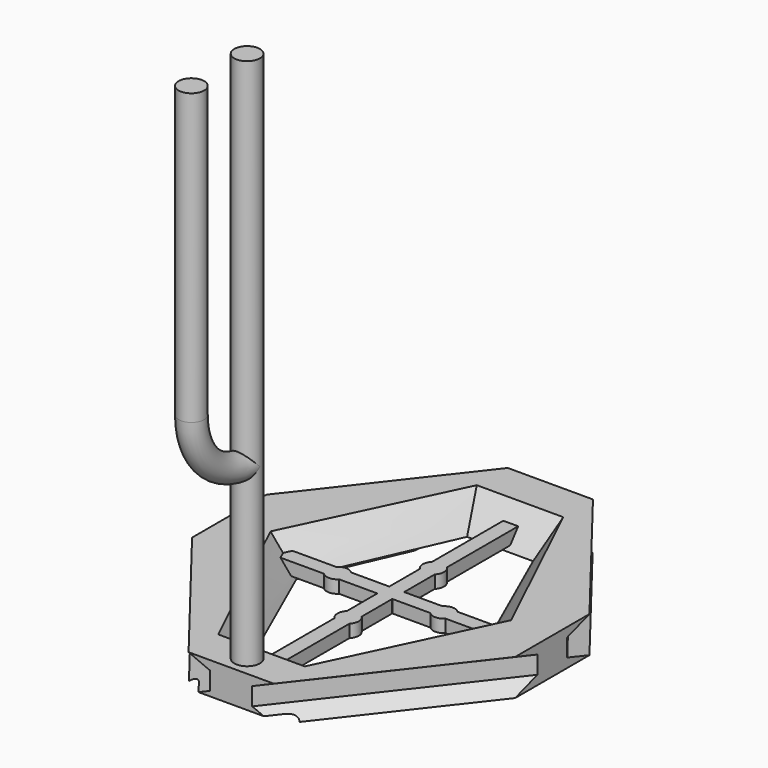
from build123d import *

# Parameters (mm, degrees)
POCKET_DEPTH         = 0.254
POCKET002_DEPTH      = 11.891
POCKET002_DEPTH_BACK = 11.891
PAD_DEPTH            = 0.762
SKETCH025_R          = 0.762
PAD001_DEPTH         = 31.75
SKETCH040_R          = 0.762


with BuildPart() as part:
    # Sketch → AdditiveLoft section 0
    with BuildSketch(Plane.XY):
        Polygon((-2.54, 11.89), (2.54, 11.89), (9.628041, 2.7686), (9.628041, -2.7686), (2.54, -11.89), (-2.54, -11.89), (-9.628041, -2.7686), (-9.628041, 2.7686), align=None)
    # Sketch028 → AdditiveLoft section 1
    with BuildSketch(Plane.XY.offset(0.548386)):
        Polygon((-9.628041, 1.112788), (-1.253305, 11.89), (1.253305, 11.89), (9.628041, 1.112788), (9.628041, -1.112788), (1.253305, -11.89), (-1.253305, -11.89), (-9.628041, -1.112788), align=None)
    # Sketch029 → AdditiveLoft section 2
    with BuildSketch(Plane.XY.offset(1.610614)):
        Polygon((-9.628041, 1.112788), (-1.253305, 11.89), (1.253305, 11.89), (9.628041, 1.112788), (9.628041, -1.112788), (1.253305, -11.89), (-1.253305, -11.89), (-9.628041, -1.112788), align=None)
    # Sketch019 → AdditiveLoft section 3
    with BuildSketch(Plane.XY.offset(2.159)):
        Polygon((-2.54, 11.89), (2.54, 11.89), (9.628041, 2.7686), (9.628041, -2.7686), (2.54, -11.89), (-2.54, -11.89), (-9.628041, -2.7686), (-9.628041, 2.7686), align=None)
    loft(ruled=True)

    # Sketch013 → SubtractiveLoft section 0
    with BuildSketch(Plane.XY.offset(2.159)):
        Polygon((-7.16788, 0), (-2.577952, -9.63194), (2.577952, -9.63194), (7.16788, 0), (2.577952, 9.63194), (-2.577952, 9.63194), align=None)
    # Sketch014 → SubtractiveLoft section 1
    with BuildSketch(Plane(origin=(0, 0, 0), x_dir=(1, 0, 0), z_dir=(0, 0, -1))):
        Polygon((-5.35686, 0), (-1.88501, 7.94538), (1.88501, 7.94538), (5.35686, 0), (1.88501, -7.94538), (-1.88501, -7.94538), align=None)
    loft(mode=Mode.SUBTRACT)

    # Sketch006 (on Face1 of SubtractiveLoft) → Pocket (cut)
    with BuildSketch(Plane(origin=(0, 0, 0), x_dir=(1, 0, 0), z_dir=(0, 0, -1))):
        Polygon((-5.8928, 0), (-2.073148, 8.739918), (2.073148, 8.739918), (5.8928, 0), (2.073148, -8.739918), (-2.073148, -8.739918), align=None)
    extrude(amount=-POCKET_DEPTH, mode=Mode.SUBTRACT)

    # Sketch022 → Pocket002 (cut, two sides)
    with BuildSketch(Plane.XZ) as pocket002_sk:
        with BuildLine():
            ThreePointArc((-2.54, 0.254), (-2.941609, 0.188828), (-3.302, 0))
            Line((-3.302, 0), (3.302, 0))
            ThreePointArc((3.302, 0), (2.941609, 0.188828), (2.54, 0.254))
            Line((-2.54, 0.254), (2.54, 0.254))
        make_face()
    extrude(amount=-POCKET002_DEPTH, mode=Mode.SUBTRACT)
    extrude(pocket002_sk.sketch, amount=POCKET002_DEPTH_BACK, mode=Mode.SUBTRACT)

    # Sketch018 → Pad (join)
    with BuildSketch(Plane.XY.offset(0.508)):
        with BuildLine():
            Line((-3.628481, 0.4445), (-7.62, 0.4445))
            Line((-7.62, 0.4445), (-7.62, -0.4445))
            Line((-7.62, -0.4445), (-3.628481, -0.4445))
            ThreePointArc((-3.628481, -0.4445), (-3.175, -0.635), (-2.721519, -0.4445))
            Line((-2.721519, -0.4445), (-0.453481, -0.4445))
            ThreePointArc((-0.453481, -0.4445), (-0.449013, -0.449013), (-0.4445, -0.453481))
            Line((-0.4445, -0.453481), (-0.4445, -2.721519))
            ThreePointArc((-0.4445, -2.721519), (-0.635, -3.175), (-0.4445, -3.628481))
            Line((-0.4445, -3.628481), (-0.4445, -10.62))
            Line((-0.4445, -10.62), (0.4445, -10.62))
            Line((0.4445, -10.62), (0.4445, -3.628481))
            ThreePointArc((0.4445, -3.628481), (0.635, -3.175), (0.4445, -2.721519))
            Line((0.4445, -2.721519), (0.4445, -0.453481))
            ThreePointArc((0.4445, -0.453481), (0.449013, -0.449013), (0.453481, -0.4445))
            Line((0.453481, -0.4445), (2.721519, -0.4445))
            ThreePointArc((2.721519, -0.4445), (3.175, -0.635), (3.628481, -0.4445))
            Line((7.62, -0.4445), (3.628481, -0.4445))
            Line((7.62, 0.4445), (7.62, -0.4445))
            Line((3.628481, 0.4445), (7.62, 0.4445))
            ThreePointArc((3.628481, 0.4445), (3.175, 0.635), (2.721519, 0.4445))
            Line((0.453481, 0.4445), (2.721519, 0.4445))
            ThreePointArc((0.453481, 0.4445), (0.449013, 0.449013), (0.4445, 0.453481))
            Line((0.4445, 0.453481), (0.4445, 2.721519))
            ThreePointArc((0.4445, 2.721519), (0.635, 3.175), (0.4445, 3.628481))
            Line((0.4445, 9.35), (0.4445, 3.628481))
            Line((-0.4445, 9.35), (0.4445, 9.35))
            Line((-0.4445, 3.628481), (-0.4445, 9.35))
            ThreePointArc((-0.4445, 3.628481), (-0.635, 3.175), (-0.4445, 2.721519))
            Line((-0.4445, 0.453481), (-0.4445, 2.721519))
            ThreePointArc((-0.4445, 0.453481), (-0.449013, 0.449013), (-0.453481, 0.4445))
            Line((-2.721519, 0.4445), (-0.453481, 0.4445))
            ThreePointArc((-2.721519, 0.4445), (-3.175, 0.635), (-3.628481, 0.4445))
        make_face()
    extrude(amount=PAD_DEPTH)

    # Sketch025 → Pad001 (join)
    with BuildSketch(Plane.XY.offset(2.159)):
        with Locations((0, -10.704667)):
            Circle(SKETCH025_R)
    extrude(amount=PAD001_DEPTH)

    # AdditivePipe: sweep along a path in Sketch037
    with BuildLine(Plane.YZ) as additivepipe_path:
        ThreePointArc((-10.704667, 12.488333), (-13.638217, 13.70345), (-14.853333, 16.637))
        Line((-14.853333, 16.637), (-14.853333, 33.909))
    # Sketch040 → AdditivePipe (sweep)
    with BuildSketch(Plane.XY.offset(33.909)):
        with Locations((0, -14.853333)):
            Circle(SKETCH040_R)
    sweep(path=additivepipe_path.line)


with BuildPart() as part_1:
    # Body placement: moved
    add(part.part.moved(Location((5.461, 0, 0))))


solid = part_1.part
